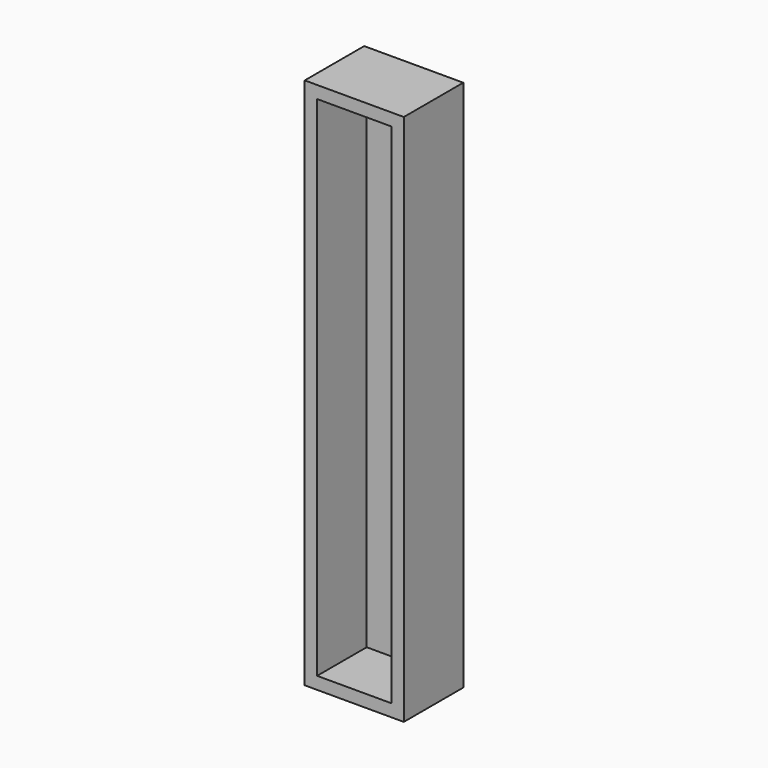
from build123d import *

# Parameters (mm, degrees)
F0_W     = 40
F0_H     = 215
F1_DEPTH = 15
F2_W     = 30
F2_H     = 205
F3_DEPTH = 25


with BuildPart() as f1:
    # F0 (on Front) → F1 (new body, symmetric)
    with BuildSketch(Plane.XZ):
        Rectangle(F0_W, F0_H)
    extrude(amount=F1_DEPTH, both=True)

    # F2 (on face) → F3 (cut)
    with BuildSketch(Plane.XZ.offset(15)):
        Rectangle(F2_W, F2_H)
    extrude(amount=-F3_DEPTH, mode=Mode.SUBTRACT)


solid = f1.part
